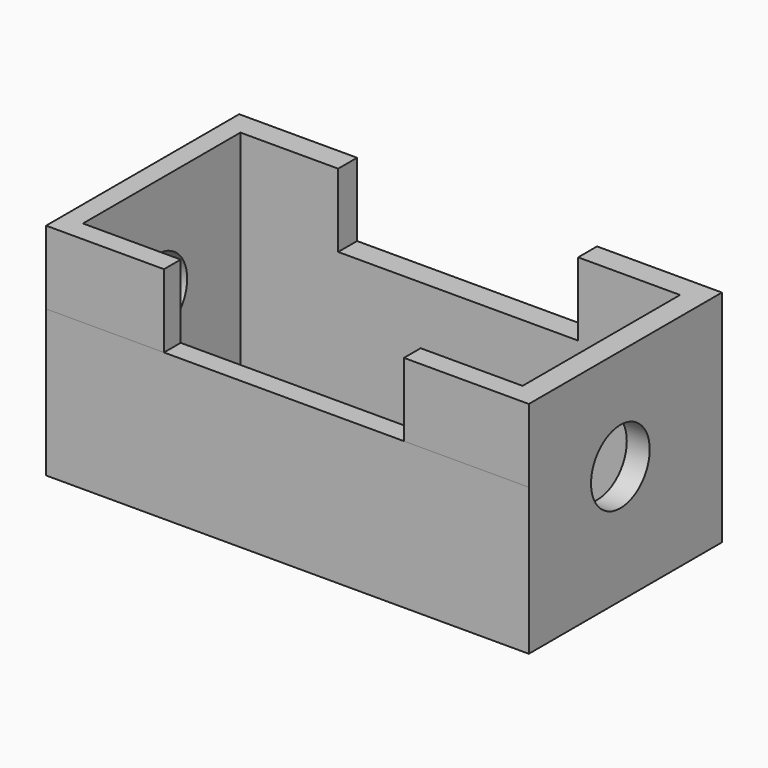
from build123d import *

# Parameters (mm, degrees)
F0_W     = 167.249814
F0_H     = 83.624911
F0_W_2   = 152.308196
F0_H_2   = 68.201296
F1_DEPTH = 50.8
F3_DEPTH = 25.4
F4_R     = 12.710447
F5_DEPTH = 226.06


with BuildPart() as f1:
    # F0 (on Top) → F1 (new body)
    with BuildSketch(Plane.XY):
        with Locations((0.361487, 3.132922)):
            Rectangle(F0_W, F0_H)
        with Locations((-0.120498, 2.650935)):
            Rectangle(F0_W_2, F0_H_2, mode=Mode.SUBTRACT)
    extrude(amount=F1_DEPTH)

    # F2 (on face) → F3 (join)
    with BuildSketch(Plane.XY.offset(50.8)):
        Polygon((-42.414945, 36.751583), (-42.414945, 44.945378), (-83.26342, 44.945378), (-83.26342, -38.679533), (-42.414945, -38.679533), (-42.414945, -31.449713), (-76.274596, -31.449713), (-76.274596, 36.751583), align=None)
        Polygon((83.986394, 44.945378), (40.72798, 44.945378), (40.72798, 36.751583), (76.0336, 36.751583), (76.0336, -31.449713), (40.72798, -31.449713), (40.72798, -38.679533), (83.986394, -38.679533), align=None)
    extrude(amount=F3_DEPTH)

    # F4 (on face) → F5 (cut)
    with BuildSketch(Plane.YZ.offset(83.986394)):
        with Locations((0.967863, 41.003589)):
            Circle(F4_R)
    extrude(amount=-F5_DEPTH, mode=Mode.SUBTRACT)


solid = f1.part
